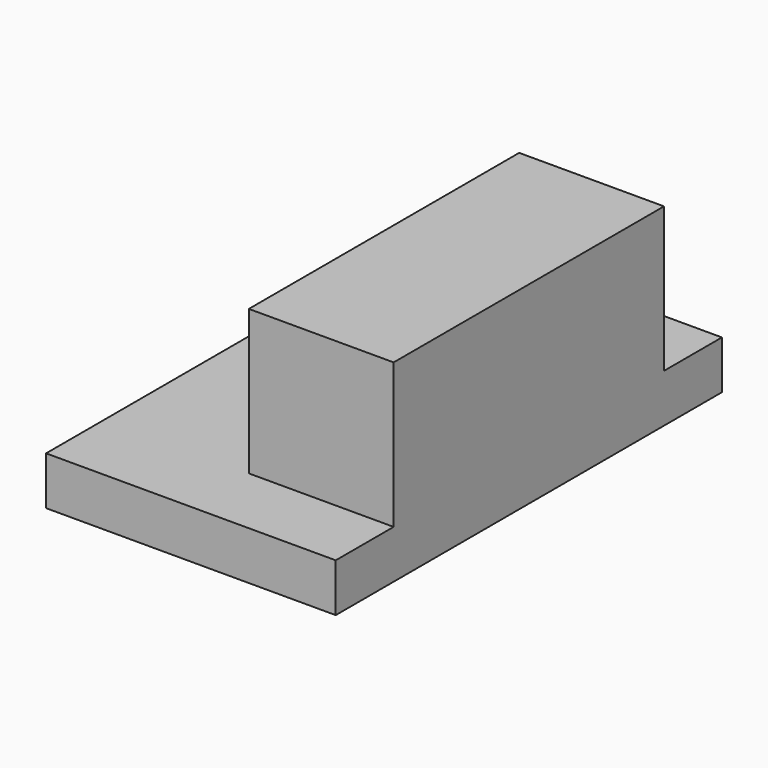
from build123d import *

# Parameters (mm, degrees)
F0_W     = 76.2
F0_H     = 127
F1_DEPTH = 12.7
F2_W     = 88.9
F2_H     = 38.1
F3_DEPTH = 38.1


with BuildPart() as f1:
    # F0 (on Top) → F1 (new body)
    with BuildSketch(Plane.XY):
        Rectangle(F0_W, F0_H)
    extrude(amount=F1_DEPTH)

    # F2 (on Right) → F3 (join)
    with BuildSketch(Plane.YZ):
        with Locations((0, 31.75)):
            Rectangle(F2_W, F2_H)
    extrude(amount=F3_DEPTH)


solid = f1.part
